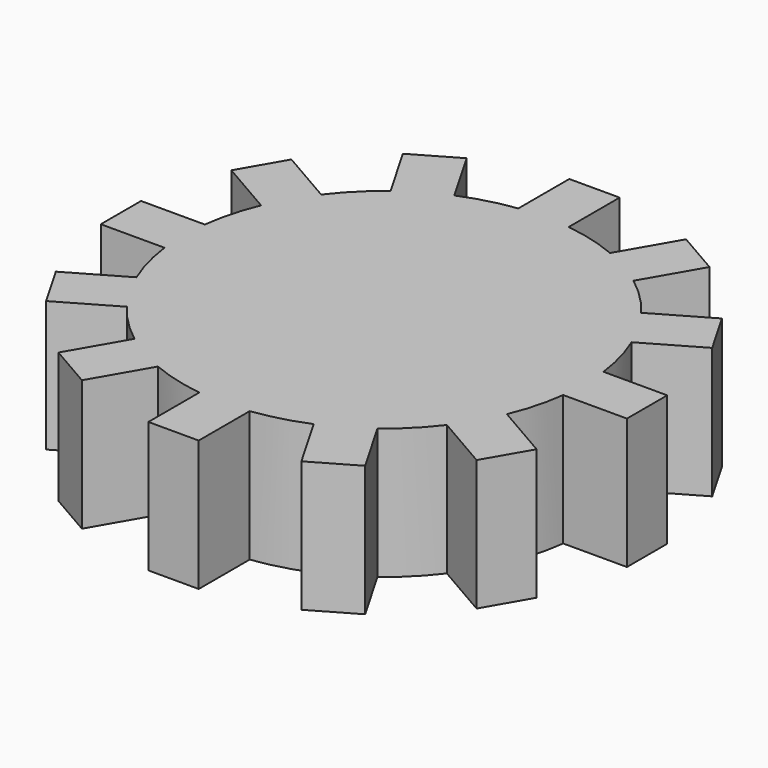
from build123d import *

# Parameters (mm, degrees)
F1_DEPTH = 15


with BuildPart() as f1:
    # F0 (on Top) → F1 (new body)
    with BuildSketch(Plane.XY):
        with BuildLine():
            Line((-2.888783, 30.191496), (-2.888783, 22.877379))
            ThreePointArc((-2.888783, 22.877379), (-5.96812, 22.273326), (-8.93693, 21.256782))
            Line((-8.93693, 21.256782), (-12.593989, 27.590994))
            Line((-12.593989, 27.590994), (-17.597507, 24.702211))
            Line((-17.597507, 24.702211), (-13.940448, 18.368))
            ThreePointArc((-13.940448, 18.368), (-16.305207, 16.305207), (-18.368, 13.940448))
            Line((-18.368, 13.940448), (-24.702211, 17.597507))
            Line((-24.702211, 17.597507), (-27.590994, 12.593989))
            Line((-27.590994, 12.593989), (-21.256782, 8.93693))
            ThreePointArc((-21.256782, 8.93693), (-22.273326, 5.96812), (-22.877379, 2.888783))
            Line((-22.877379, 2.888783), (-30.191496, 2.888783))
            Line((-30.191496, 2.888783), (-30.191496, -2.888783))
            Line((-30.191496, -2.888783), (-22.877379, -2.888783))
            ThreePointArc((-22.877379, -2.888783), (-22.273326, -5.96812), (-21.256782, -8.93693))
            Line((-21.256782, -8.93693), (-27.590994, -12.593989))
            Line((-27.590994, -12.593989), (-24.702211, -17.597507))
            Line((-24.702211, -17.597507), (-18.368, -13.940448))
            ThreePointArc((-18.368, -13.940448), (-16.305207, -16.305207), (-13.940448, -18.368))
            Line((-13.940448, -18.368), (-17.597507, -24.702211))
            Line((-17.597507, -24.702211), (-12.593989, -27.590994))
            Line((-12.593989, -27.590994), (-8.93693, -21.256782))
            ThreePointArc((-8.93693, -21.256782), (-5.96812, -22.273326), (-2.888783, -22.877379))
            Line((-2.888783, -22.877379), (-2.888783, -30.191496))
            Line((-2.888783, -30.191496), (2.888783, -30.191496))
            Line((2.888783, -30.191496), (2.888783, -22.877379))
            ThreePointArc((2.888783, -22.877379), (5.96812, -22.273326), (8.93693, -21.256782))
            Line((8.93693, -21.256782), (12.593989, -27.590994))
            Line((12.593989, -27.590994), (17.597507, -24.702211))
            Line((17.597507, -24.702211), (13.940448, -18.368))
            ThreePointArc((13.940448, -18.368), (16.305207, -16.305207), (18.368, -13.940448))
            Line((18.368, -13.940448), (24.702211, -17.597507))
            Line((24.702211, -17.597507), (27.590994, -12.593989))
            Line((27.590994, -12.593989), (21.256782, -8.93693))
            ThreePointArc((21.256782, -8.93693), (22.273326, -5.96812), (22.877379, -2.888783))
            Line((22.877379, -2.888783), (30.191496, -2.888783))
            Line((30.191496, -2.888783), (30.191496, 2.888783))
            Line((30.191496, 2.888783), (22.877379, 2.888783))
            ThreePointArc((22.877379, 2.888783), (22.273326, 5.96812), (21.256782, 8.93693))
            Line((21.256782, 8.93693), (27.590994, 12.593989))
            Line((27.590994, 12.593989), (24.702211, 17.597507))
            Line((24.702211, 17.597507), (18.368, 13.940448))
            ThreePointArc((18.368, 13.940448), (16.305207, 16.305207), (13.940448, 18.368))
            Line((13.940448, 18.368), (17.597507, 24.702211))
            Line((17.597507, 24.702211), (12.593989, 27.590994))
            Line((12.593989, 27.590994), (8.93693, 21.256782))
            ThreePointArc((8.93693, 21.256782), (5.96812, 22.273326), (2.888783, 22.877379))
            Line((2.888783, 22.877379), (2.888783, 30.191496))
            Line((2.888783, 30.191496), (-2.888783, 30.191496))
        make_face()
    extrude(amount=F1_DEPTH)


solid = f1.part
